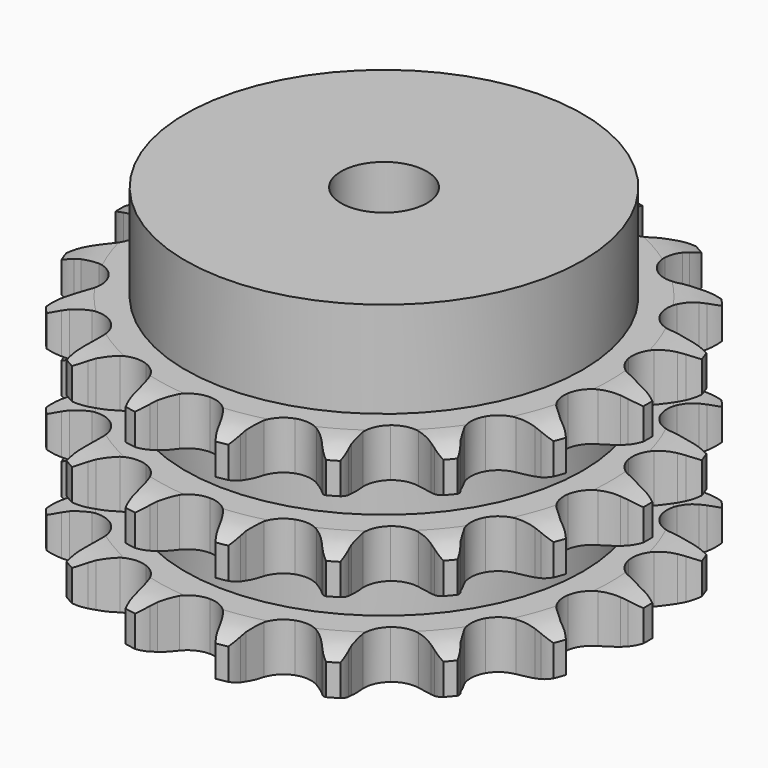
from build123d import *

# Parameters (mm, degrees)
PAD_DEPTH         = 42.1
SKETCH001_R       = 37
PAD001_DEPTH      = 60
SKETCH002_R       = 8
POCKET_DEPTH      = 0.001
POCKET_DEPTH_BACK = 60.001


with BuildPart() as part:
    # Sprocket → Pad (new body)
    with BuildSketch(Plane.XY):
        with BuildLine():
            ThreePointArc((-8.789023, 49.845028), (-7.33541, 48.372265), (-6.285014, 46.589377))
            Line((-6.285014, 46.589377), (-5.800158, 45.47132))
            ThreePointArc((-5.800158, 45.47132), (-5.013399, 43.938261), (-4.034642, 42.520059))
            ThreePointArc((-4.034642, 42.520059), (-2.241305, 41.080754), (0, 40.566741))
            ThreePointArc((0, 40.566741), (2.241305, 41.080754), (4.034642, 42.520059))
            ThreePointArc((4.034642, 42.520059), (5.013399, 43.938261), (5.800158, 45.47132))
            Line((5.800158, 45.47132), (6.285014, 46.589377))
            ThreePointArc((6.285014, 46.589377), (7.33541, 48.372265), (8.789023, 49.845028))
            ThreePointArc((8.789023, 49.845028), (9.651258, 47.963919), (10.028524, 45.929296))
            Line((10.028524, 45.929296), (10.101742, 44.712835))
            ThreePointArc((10.101742, 44.712835), (10.316716, 43.003143), (10.751394, 41.335715))
            ThreePointArc((10.751394, 41.335715), (11.944308, 39.369853), (13.874642, 38.120267))
            ThreePointArc((13.874642, 38.120267), (16.156583, 37.83671), (18.33404, 38.575857))
            Line((18.33404, 38.575857), (21.002473, 40.745293))
            ThreePointArc((21.002473, 40.745293), (21.411319, 41.197317), (21.840487, 41.630093))
            ThreePointArc((21.840487, 41.630093), (23.43732, 42.946202), (25.306984, 43.832982))
            ThreePointArc((25.306984, 43.832982), (25.473842, 41.770416), (25.132474, 39.729463))
            Line((25.132474, 39.729463), (24.785223, 38.561322))
            ThreePointArc((24.785223, 38.561322), (24.402483, 36.881211), (24.240652, 35.165673))
            ThreePointArc((24.240652, 35.165673), (24.689261, 32.910367), (26.075798, 31.075926))
            ThreePointArc((26.075798, 31.075926), (28.123139, 30.029001), (30.422082, 29.978837))
            Line((30.422082, 29.978837), (33.67158, 31.104783))
            ThreePointArc((33.67158, 31.104783), (34.21037, 31.389712), (34.761675, 31.649604))
            ThreePointArc((34.761675, 31.649604), (36.712343, 32.340194), (38.772549, 32.534031))
            ThreePointArc((38.772549, 32.534031), (38.223905, 30.538784), (37.205077, 28.737671))
            Line((37.205077, 28.737671), (36.479239, 27.758744))
            ThreePointArc((36.479239, 27.758744), (35.54495, 26.310861), (34.806131, 24.754132))
            ThreePointArc((34.806131, 24.754132), (34.456324, 22.481404), (35.131828, 20.28337))
            ThreePointArc((35.131828, 20.28337), (36.697629, 18.59935), (38.840773, 17.765927))
            Line((38.840773, 17.765927), (42.279397, 17.712576))
            ThreePointArc((42.279397, 17.712576), (42.883147, 17.796045), (43.490091, 17.851707))
            ThreePointArc((43.490091, 17.851707), (45.559316, 17.833481), (47.561572, 17.310997))
            ThreePointArc((47.561572, 17.310997), (46.363601, 15.623725), (44.790199, 14.279691))
            Line((44.790199, 14.279691), (43.773322, 13.608052))
            ThreePointArc((43.773322, 13.608052), (42.400172, 12.567033), (41.173476, 11.356878))
            ThreePointArc((41.173476, 11.356878), (40.067447, 9.340853), (39.950441, 7.044341))
            ThreePointArc((39.950441, 7.044341), (40.845844, 4.926344), (42.574692, 3.410184))
            Line((42.574692, 3.410184), (45.787695, 2.183972))
            ThreePointArc((45.787695, 2.183972), (46.383582, 2.055912), (46.972961, 1.90063))
            ThreePointArc((46.972961, 1.90063), (48.911162, 1.175787), (50.613968, 0))
            ThreePointArc((50.613968, 0), (48.911162, -1.175787), (46.972961, -1.90063))
            Line((46.972961, -1.90063), (45.787695, -2.183972))
            ThreePointArc((45.787695, -2.183972), (44.141307, -2.692564), (42.574692, -3.410184))
            ThreePointArc((42.574692, -3.410184), (40.845844, -4.926344), (39.950441, -7.044341))
            ThreePointArc((39.950441, -7.044341), (40.067447, -9.340853), (41.173476, -11.356878))
            Line((41.173476, -11.356878), (43.773322, -13.608052))
            ThreePointArc((43.773322, -13.608052), (44.289473, -13.932194), (44.790199, -14.279691))
            ThreePointArc((44.790199, -14.279691), (46.363601, -15.623725), (47.561572, -17.310997))
            ThreePointArc((47.561572, -17.310997), (45.559316, -17.833481), (43.490091, -17.851707))
            Line((43.490091, -17.851707), (42.279397, -17.712576))
            ThreePointArc((42.279397, -17.712576), (40.55835, -17.627399), (38.840773, -17.765927))
            ThreePointArc((38.840773, -17.765927), (36.697629, -18.59935), (35.131828, -20.28337))
            ThreePointArc((35.131828, -20.28337), (34.456324, -22.481404), (34.806131, -24.754132))
            Line((34.806131, -24.754132), (36.479239, -27.758744))
            ThreePointArc((36.479239, -27.758744), (36.853401, -28.239872), (37.205077, -28.737671))
            ThreePointArc((37.205077, -28.737671), (38.223905, -30.538784), (38.772549, -32.534031))
            ThreePointArc((38.772549, -32.534031), (36.712343, -32.340194), (34.761675, -31.649604))
            Line((34.761675, -31.649604), (33.67158, -31.104783))
            ThreePointArc((33.67158, -31.104783), (32.083456, -30.436109), (30.422082, -29.978837))
            ThreePointArc((30.422082, -29.978837), (28.123139, -30.029001), (26.075798, -31.075926))
            ThreePointArc((26.075798, -31.075926), (24.689261, -32.910367), (24.240652, -35.165673))
            Line((24.240652, -35.165673), (24.785223, -38.561322))
            ThreePointArc((24.785223, -38.561322), (24.972264, -39.141404), (25.132474, -39.729463))
            ThreePointArc((25.132474, -39.729463), (25.473842, -41.770416), (25.306984, -43.832982))
            ThreePointArc((25.306984, -43.832982), (23.43732, -42.946202), (21.840487, -41.630093))
            Line((21.840487, -41.630093), (21.002473, -40.745293))
            ThreePointArc((21.002473, -40.745293), (19.738825, -39.573776), (18.33404, -38.575857))
            ThreePointArc((18.33404, -38.575857), (16.156583, -37.83671), (13.874642, -38.120267))
            ThreePointArc((13.874642, -38.120267), (11.944308, -39.369853), (10.751394, -41.335715))
            Line((10.751394, -41.335715), (10.101742, -44.712835))
            ThreePointArc((10.101742, -44.712835), (10.079103, -45.321906), (10.028524, -45.929296))
            ThreePointArc((10.028524, -45.929296), (9.651258, -47.963919), (8.789023, -49.845028))
            ThreePointArc((8.789023, -49.845028), (7.33541, -48.372265), (6.285014, -46.589377))
            Line((6.285014, -46.589377), (5.800158, -45.47132))
            ThreePointArc((5.800158, -45.47132), (5.013399, -43.938261), (4.034642, -42.520059))
            ThreePointArc((4.034642, -42.520059), (2.241305, -41.080754), (0, -40.566741))
            ThreePointArc((0, -40.566741), (-2.241305, -41.080754), (-4.034642, -42.520059))
            Line((-4.034642, -42.520059), (-5.800158, -45.47132))
            ThreePointArc((-5.800158, -45.47132), (-6.029746, -46.035917), (-6.285014, -46.589377))
            ThreePointArc((-6.285014, -46.589377), (-7.33541, -48.372265), (-8.789023, -49.845028))
            ThreePointArc((-8.789023, -49.845028), (-9.651258, -47.963919), (-10.028524, -45.929296))
            Line((-10.028524, -45.929296), (-10.101742, -44.712835))
            ThreePointArc((-10.101742, -44.712835), (-10.316716, -43.003143), (-10.751394, -41.335715))
            ThreePointArc((-10.751394, -41.335715), (-11.944308, -39.369853), (-13.874642, -38.120267))
            ThreePointArc((-13.874642, -38.120267), (-16.156583, -37.83671), (-18.33404, -38.575857))
            Line((-18.33404, -38.575857), (-21.002473, -40.745293))
            ThreePointArc((-21.002473, -40.745293), (-21.411319, -41.197317), (-21.840487, -41.630093))
            ThreePointArc((-21.840487, -41.630093), (-23.43732, -42.946202), (-25.306984, -43.832982))
            ThreePointArc((-25.306984, -43.832982), (-25.473842, -41.770416), (-25.132474, -39.729463))
            Line((-25.132474, -39.729463), (-24.785223, -38.561322))
            ThreePointArc((-24.785223, -38.561322), (-24.402483, -36.881211), (-24.240652, -35.165673))
            ThreePointArc((-24.240652, -35.165673), (-24.689261, -32.910367), (-26.075798, -31.075926))
            ThreePointArc((-26.075798, -31.075926), (-28.123139, -30.029001), (-30.422082, -29.978837))
            Line((-30.422082, -29.978837), (-33.67158, -31.104783))
            ThreePointArc((-33.67158, -31.104783), (-34.21037, -31.389712), (-34.761675, -31.649604))
            ThreePointArc((-34.761675, -31.649604), (-36.712343, -32.340194), (-38.772549, -32.534031))
            ThreePointArc((-38.772549, -32.534031), (-38.223905, -30.538784), (-37.205077, -28.737671))
            Line((-37.205077, -28.737671), (-36.479239, -27.758744))
            ThreePointArc((-36.479239, -27.758744), (-35.54495, -26.310861), (-34.806131, -24.754132))
            ThreePointArc((-34.806131, -24.754132), (-34.456324, -22.481404), (-35.131828, -20.28337))
            ThreePointArc((-35.131828, -20.28337), (-36.697629, -18.59935), (-38.840773, -17.765927))
            Line((-38.840773, -17.765927), (-42.279397, -17.712576))
            ThreePointArc((-42.279397, -17.712576), (-42.883147, -17.796045), (-43.490091, -17.851707))
            ThreePointArc((-43.490091, -17.851707), (-45.559316, -17.833481), (-47.561572, -17.310997))
            ThreePointArc((-47.561572, -17.310997), (-46.363601, -15.623725), (-44.790199, -14.279691))
            Line((-44.790199, -14.279691), (-43.773322, -13.608052))
            ThreePointArc((-43.773322, -13.608052), (-42.400172, -12.567033), (-41.173476, -11.356878))
            ThreePointArc((-41.173476, -11.356878), (-40.067447, -9.340853), (-39.950441, -7.044341))
            ThreePointArc((-39.950441, -7.044341), (-40.845844, -4.926344), (-42.574692, -3.410184))
            Line((-42.574692, -3.410184), (-45.787695, -2.183972))
            ThreePointArc((-45.787695, -2.183972), (-46.383582, -2.055912), (-46.972961, -1.90063))
            ThreePointArc((-46.972961, -1.90063), (-48.911162, -1.175787), (-50.613968, 0))
            ThreePointArc((-50.613968, 0), (-48.911162, 1.175787), (-46.972961, 1.90063))
            Line((-46.972961, 1.90063), (-45.787695, 2.183972))
            ThreePointArc((-45.787695, 2.183972), (-44.141307, 2.692564), (-42.574692, 3.410184))
            ThreePointArc((-42.574692, 3.410184), (-40.845844, 4.926344), (-39.950441, 7.044341))
            ThreePointArc((-39.950441, 7.044341), (-40.067447, 9.340853), (-41.173476, 11.356878))
            Line((-41.173476, 11.356878), (-43.773322, 13.608052))
            ThreePointArc((-43.773322, 13.608052), (-44.289473, 13.932194), (-44.790199, 14.279691))
            ThreePointArc((-44.790199, 14.279691), (-46.363601, 15.623725), (-47.561572, 17.310997))
            ThreePointArc((-47.561572, 17.310997), (-45.559316, 17.833481), (-43.490091, 17.851707))
            Line((-43.490091, 17.851707), (-42.279397, 17.712576))
            ThreePointArc((-42.279397, 17.712576), (-40.55835, 17.627399), (-38.840773, 17.765927))
            ThreePointArc((-38.840773, 17.765927), (-36.697629, 18.59935), (-35.131828, 20.28337))
            ThreePointArc((-35.131828, 20.28337), (-34.456324, 22.481404), (-34.806131, 24.754132))
            Line((-34.806131, 24.754132), (-36.479239, 27.758744))
            ThreePointArc((-36.479239, 27.758744), (-36.853401, 28.239872), (-37.205077, 28.737671))
            ThreePointArc((-37.205077, 28.737671), (-38.223905, 30.538784), (-38.772549, 32.534031))
            ThreePointArc((-38.772549, 32.534031), (-36.712343, 32.340194), (-34.761675, 31.649604))
            Line((-34.761675, 31.649604), (-33.67158, 31.104783))
            ThreePointArc((-33.67158, 31.104783), (-32.083456, 30.436109), (-30.422082, 29.978837))
            ThreePointArc((-30.422082, 29.978837), (-28.123139, 30.029001), (-26.075798, 31.075926))
            ThreePointArc((-26.075798, 31.075926), (-24.689261, 32.910367), (-24.240652, 35.165673))
            Line((-24.240652, 35.165673), (-24.785223, 38.561322))
            ThreePointArc((-24.785223, 38.561322), (-24.972264, 39.141404), (-25.132474, 39.729463))
            ThreePointArc((-25.132474, 39.729463), (-25.473842, 41.770416), (-25.306984, 43.832982))
            ThreePointArc((-25.306984, 43.832982), (-23.43732, 42.946202), (-21.840487, 41.630093))
            Line((-21.840487, 41.630093), (-21.002473, 40.745293))
            ThreePointArc((-21.002473, 40.745293), (-19.738825, 39.573776), (-18.33404, 38.575857))
            ThreePointArc((-18.33404, 38.575857), (-16.156583, 37.83671), (-13.874642, 38.120267))
            ThreePointArc((-13.874642, 38.120267), (-11.944308, 39.369853), (-10.751394, 41.335715))
            Line((-10.751394, 41.335715), (-10.101742, 44.712835))
            ThreePointArc((-10.101742, 44.712835), (-10.079103, 45.321906), (-10.028524, 45.929296))
            ThreePointArc((-10.028524, 45.929296), (-9.651258, 47.963919), (-8.789023, 49.845028))
        make_face()
    extrude(amount=PAD_DEPTH)

    # Sketch → Groove (revolve, cut)
    with BuildSketch(Plane.XZ):
        with BuildLine():
            ThreePointArc((42.175762, 0), (45.75347, 0.405129), (49.15, 1.6))
            Line((49.15, 1.6), (49.15, 7.4))
            ThreePointArc((49.15, 7.4), (45.75347, 8.594871), (42.175762, 9))
            Line((37, 9), (42.175762, 9))
            Line((37, 9), (37, 16.55))
            Line((37, 16.55), (42.175762, 16.55))
            ThreePointArc((42.175762, 16.55), (45.75347, 16.955129), (49.15, 18.15))
            Line((49.15, 23.95), (49.15, 18.15))
            ThreePointArc((49.15, 23.95), (45.75347, 25.144871), (42.175762, 25.55))
            Line((37, 25.55), (42.175762, 25.55))
            Line((37, 33.1), (37, 25.55))
            Line((42.175762, 33.1), (37, 33.1))
            ThreePointArc((42.175762, 33.1), (45.75347, 33.505129), (49.15, 34.7))
            Line((49.15, 34.7), (49.15, 40.5))
            ThreePointArc((49.15, 40.5), (45.75347, 41.694871), (42.175762, 42.1))
            Line((42.175762, 42.1), (59.15, 42.1))
            Line((59.15, 42.1), (59.15, 0))
            Line((42.175762, 0), (59.15, 0))
        make_face()
    revolve(axis=Axis((0, 0, 0), (0, 0, 1)), mode=Mode.SUBTRACT)

    # Sketch001 → Pad001 (join)
    with BuildSketch(Plane.XY):
        Circle(SKETCH001_R)
    extrude(amount=PAD001_DEPTH)

    # Sketch002 → Pocket (cut, two sides)
    with BuildSketch(Plane.XY) as pocket_sk:
        Circle(SKETCH002_R)
    extrude(amount=-POCKET_DEPTH, mode=Mode.SUBTRACT)
    extrude(pocket_sk.sketch, amount=POCKET_DEPTH_BACK, mode=Mode.SUBTRACT)


solid = part.part
